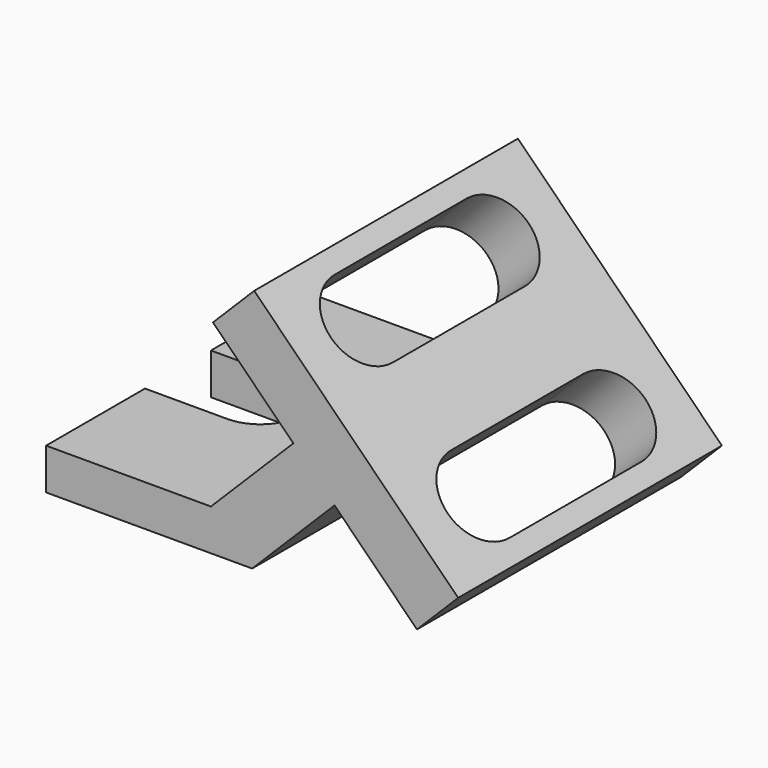
from build123d import *

# Parameters (mm, degrees)
F1_DEPTH = 203.2
F3_DEPTH = 38.1
F5_DEPTH = 50.8


with BuildPart() as f1:
    # F0 (on Front) → F1 (new body)
    with BuildSketch(Plane.XZ):
        Polygon((0, 25.4), (0, 0), (127, 0), (177.8, 50.8), (228.6, 0), (254, 25.4), (128.276414, 151.123586), (102.876414, 125.723586), (152.4, 76.2), (101.6, 25.4), align=None)
    extrude(amount=-F1_DEPTH)

    # F2 (on face) → F3 (cut)
    with BuildSketch(Plane.XY.offset(25.4)):
        with BuildLine():
            Line((0, 76.2), (50.8, 76.2))
            ThreePointArc((50.8, 76.2), (76.2, 101.6), (50.8, 127))
            Line((50.8, 127), (0, 127))
            Line((0, 127), (0, 76.2))
        make_face()
    extrude(amount=-F3_DEPTH, mode=Mode.SUBTRACT)

    # F4 (on face) → F5 (cut)
    with BuildSketch(Plane(origin=(139.7, 0, 139.7), x_dir=(0.707107, 0, -0.707107), z_dir=(0.707107, 0, 0.707107))):
        with BuildLine():
            Line((-3.45539, 152.4), (-3.45539, 50.8))
            ThreePointArc((-3.45539, 50.8), (21.94461, 25.4), (47.34461, 50.8))
            Line((47.34461, 50.8), (47.34461, 152.4))
            ThreePointArc((47.34461, 152.4), (21.94461, 177.8), (-3.45539, 152.4))
        make_face()
        with BuildLine():
            Line((98.14461, 152.4), (98.14461, 50.8))
            ThreePointArc((98.14461, 50.8), (123.54461, 25.4), (148.94461, 50.8))
            Line((148.94461, 50.8), (148.94461, 152.4))
            ThreePointArc((148.94461, 152.4), (123.54461, 177.8), (98.14461, 152.4))
        make_face()
    extrude(amount=-F5_DEPTH, mode=Mode.SUBTRACT)


solid = f1.part
